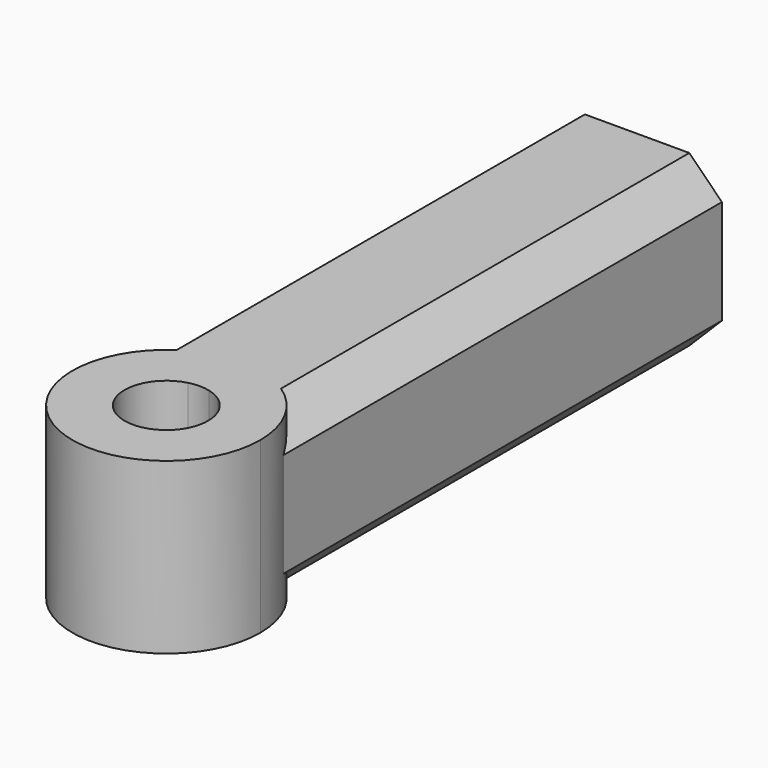
from build123d import *

# Parameters (mm, degrees)
F3_DEPTH = 6.5
F4_SIZE  = 1.25
F5_R     = 1.25
F6_DEPTH = 20


with BuildPart() as f3:
    # F2 (on Top) → F3 (new body)
    with BuildSketch(Plane.XY):
        with BuildLine():
            ThreePointArc((-3.25, 1.5483862567), (0, 3.6), (3.25, 1.5483862567))
            Line((3.25, 1.5483862567), (3.25, 22.5483862567))
            Line((3.25, 22.5483862567), (-3.25, 22.5483862567))
            Line((-3.25, 22.5483862567), (-3.25, 1.5483862567))
        make_face()
        with BuildLine():
            ThreePointArc((-0.4031128874, 1.5483862567), (0, 1.6), (0.4031128874, 1.5483862567))
            Line((0.4031128874, 1.5483862567), (3.25, 1.5483862567))
            ThreePointArc((3.25, 1.5483862567), (0, 3.6), (-3.25, 1.5483862567))
            Line((-3.25, 1.5483862567), (-0.4031128874, 1.5483862567))
        make_face()
        with BuildLine():
            ThreePointArc((0.4031128874, 1.5483862567), (1.2658950628, 0.9785242409), (1.6, 0))
            ThreePointArc((1.6, 0), (-0.9785242409, -1.2658950628), (-0.4031128874, 1.5483862567))
            Line((-0.4031128874, 1.5483862567), (-3.25, 1.5483862567))
            ThreePointArc((-3.25, 1.5483862567), (-0.7937253933, -3.5114099732), (3.6, 0))
            ThreePointArc((3.6, 0), (3.5114099732, 0.7937253933), (3.25, 1.5483862567))
            Line((3.25, 1.5483862567), (0.4031128874, 1.5483862567))
        make_face()
    extrude(amount=F3_DEPTH)

    # F4
    f4_edges = [f3.edges().sort_by_distance(p)[0] for p in [
        (3.25, 12.048386, 6.5),
        (-3.25, 12.048386, 6.5),
        (3.25, 12.048386, 0),
        (-3.25, 12.048386, 0),
    ]]
    chamfer(f4_edges, length=F4_SIZE)

    # F5 (on face) → F6 (cut)
    with BuildSketch(Plane(origin=(0, 22.5483862567, 0), x_dir=(-1, 0, 0), z_dir=(0, 1, 0))):
        with Locations((0, 3.25)):
            Circle(F5_R)
    extrude(amount=-F6_DEPTH, mode=Mode.SUBTRACT)


solid = f3.part
